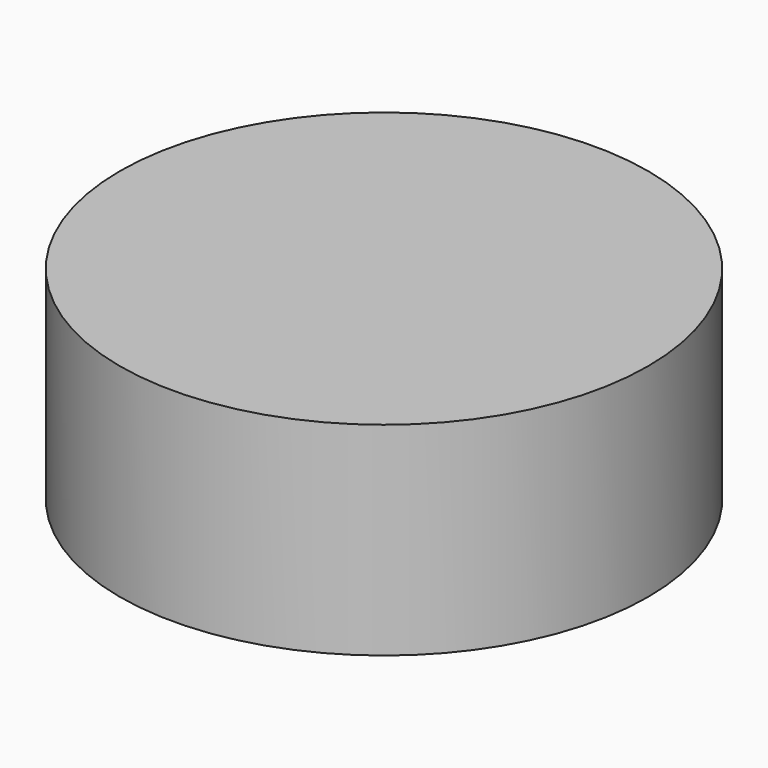
from build123d import *

# Parameters (mm, degrees)
SKETCH_R      = 65
EXTRUDE_DEPTH = 50


with BuildPart() as part:
    # Sketch → Extrude (new body)
    with BuildSketch(Plane.XY):
        Circle(SKETCH_R)
    extrude(amount=EXTRUDE_DEPTH)


solid = part.part
